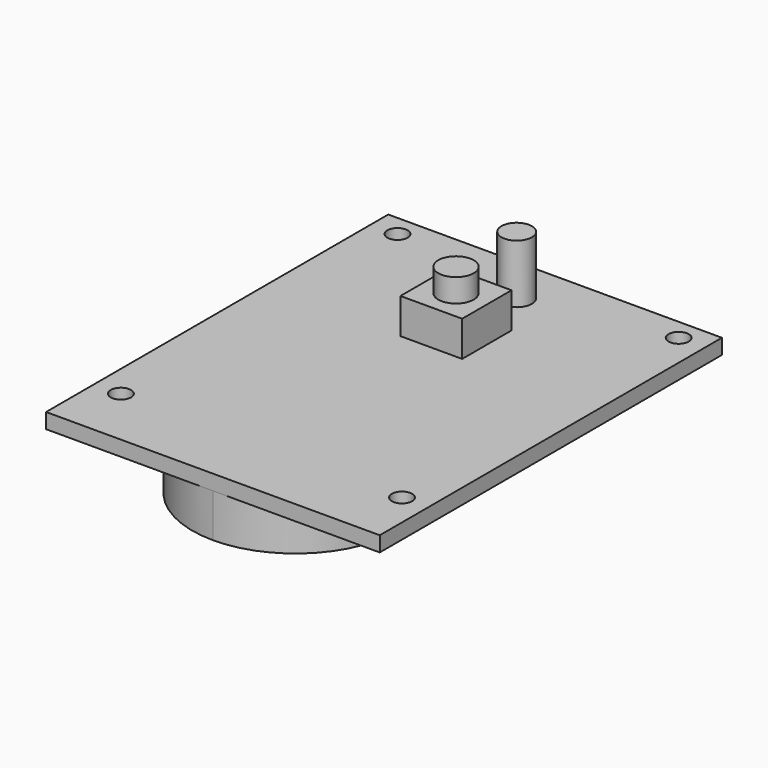
from build123d import *

# Parameters (mm, degrees)
F0_R     = 1
F0_W     = 10
F0_H     = 3.5
F0_W_2   = 6.1
F0_H_2   = 6.1
F0_R_2   = 1.5
F0_R_3   = 1.75
F1_DEPTH = 1.5
F2_DEPTH = 4.3
F3_DEPTH = 7.3
F4_DEPTH = 5
F5_DEPTH = 3.3


with BuildPart() as f1:
    # F0 (on Top) → F1 (new body)
    with BuildSketch(Plane.XY):
        Polygon((16.5, 24.617638), (-16.5, 24.617638), (-16.5, -17.682362), (0, -17.682362), (16.5, -17.682362), align=None)
        with Locations((-13.9, -11.682362)):
            Circle(F0_R, mode=Mode.SUBTRACT)
        with BuildLine():
            ThreePointArc((10.2, -7.482362), (7.212489, -14.694851), (0, -17.682362))
            ThreePointArc((0, -17.682362), (-7.212489, -0.269872), (10.2, -7.482362))
        make_face(mode=Mode.SUBTRACT)
        with Locations((13.9, -11.682362)):
            Circle(F0_R, mode=Mode.SUBTRACT)
        with Locations((-0.111425, 6.467638)):
            Rectangle(F0_W, F0_H, mode=Mode.SUBTRACT)
        with Locations((-13.9, 22.517638)):
            Circle(F0_R, mode=Mode.SUBTRACT)
        with Locations((0, 12.367638)):
            Rectangle(F0_W_2, F0_H_2, mode=Mode.SUBTRACT)
        with Locations((0, 19.867638)):
            Circle(F0_R_2, mode=Mode.SUBTRACT)
        with Locations((13.9, 22.517638)):
            Circle(F0_R, mode=Mode.SUBTRACT)
        with BuildLine():
            ThreePointArc((10.2, -7.482362), (-7.212489, -0.269872), (0, -17.682362))
            ThreePointArc((0, -17.682362), (7.212489, -14.694851), (10.2, -7.482362))
        make_face()
        with Locations((0, 19.867638)):
            Circle(F0_R_2)
        with Locations((0, 12.367638)):
            Rectangle(F0_W_2, F0_H_2)
        with Locations((0, 12.367638)):
            Circle(F0_R_3, mode=Mode.SUBTRACT)
        with Locations((0, 12.367638)):
            Circle(F0_R_3)
        with Locations((-0.111425, 6.467638)):
            Rectangle(F0_W, F0_H)
    extrude(amount=F1_DEPTH)

    # F0 (on Top) → F2 (join)
    with BuildSketch(Plane.XY):
        with BuildLine():
            ThreePointArc((10.2, -7.482362), (-7.212489, -0.269872), (0, -17.682362))
            ThreePointArc((0, -17.682362), (7.212489, -14.694851), (10.2, -7.482362))
        make_face()
    extrude(amount=-F2_DEPTH)

    # F0 (on Top) → F3 (join)
    with BuildSketch(Plane.XY):
        with Locations((0, 19.867638)):
            Circle(F0_R_2)
        with Locations((0, 12.367638)):
            Circle(F0_R_3)
    extrude(amount=F3_DEPTH)

    # F0 (on Top) → F4 (join)
    with BuildSketch(Plane.XY):
        with Locations((0, 12.367638)):
            Rectangle(F0_W_2, F0_H_2)
        with Locations((0, 12.367638)):
            Circle(F0_R_3, mode=Mode.SUBTRACT)
    extrude(amount=F4_DEPTH)

    # F0 (on Top) → F5 (join)
    with BuildSketch(Plane.XY):
        with Locations((-0.111425, 6.467638)):
            Rectangle(F0_W, F0_H)
    extrude(amount=-F5_DEPTH)


solid = f1.part
